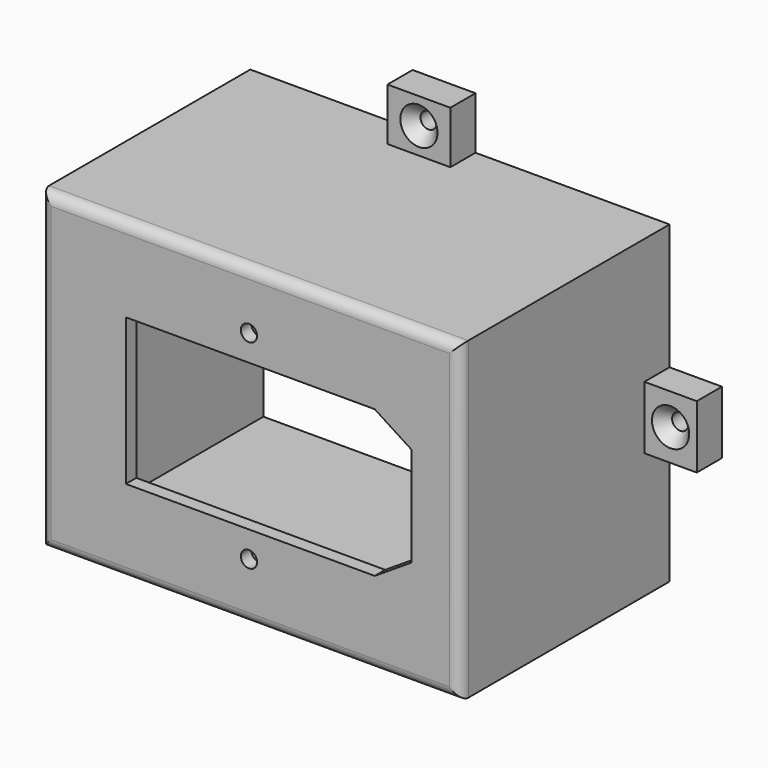
from build123d import *

# Parameters (mm, degrees)
F0_W            = 80
F0_H            = 60
F0_W_2          = 75
F0_H_2          = 55
F1_DEPTH        = 50
F0_R            = 1.55
F2_DEPTH        = 2.5
F3_W            = 10
F3_H            = 12
F3_R            = 1.55
F3_W_2          = 12
F3_H_2          = 10
F4_DEPTH        = 6
F5_R            = 2
F10_D           = 3.1
F10_CSINK_D     = 7.1
F10_CSINK_ANGLE = 82


with BuildPart() as f1:
    # F0 (on Front) → F1 (new body)
    with BuildSketch(Plane.XZ):
        Rectangle(F0_W, F0_H)
        Rectangle(F0_W_2, F0_H_2, mode=Mode.SUBTRACT)
    extrude(amount=-F1_DEPTH)

    # F0 (on Front) → F2 (join)
    with BuildSketch(Plane.XZ):
        Rectangle(F0_W_2, F0_H_2)
        with Locations((-0.25, -19)):
            Circle(F0_R, mode=Mode.SUBTRACT)
        with Locations((-0.25, 19)):
            Circle(F0_R, mode=Mode.SUBTRACT)
        Polygon((30.75, -9.5), (23.75, -14), (-23.75, -14), (-23.75, 14), (23.75, 14), (30.75, 9.5), align=None, mode=Mode.SUBTRACT)
    extrude(amount=-F2_DEPTH)

    # F3 (on face) → F4 (join)
    with BuildSketch(Plane(origin=(0, 50, 0), x_dir=(-1, 0, 0), z_dir=(0, 1, 0))):
        with Locations((45, 0)):
            Rectangle(F3_W, F3_H)
        with Locations((45, 0)):
            Circle(F3_R, mode=Mode.SUBTRACT)
        with Locations((3.022505, -35)):
            Rectangle(F3_W_2, F3_H_2)
        with Locations((3.022505, -35)):
            Circle(F3_R, mode=Mode.SUBTRACT)
        with Locations((-45, 0)):
            Rectangle(F3_W, F3_H)
        with Locations((-45, 0)):
            Circle(F3_R, mode=Mode.SUBTRACT)
        with Locations((3.022505, 35)):
            Rectangle(F3_W_2, F3_H_2)
        with Locations((3.022505, 35)):
            Circle(F3_R, mode=Mode.SUBTRACT)
    extrude(amount=-F4_DEPTH)

    # F5
    f5_edges = [f1.edges().sort_by_distance(p)[0] for p in [
        (40, 0, 0),
        (-40, 0, 0),
        (0, 0, 30),
        (0, 0, -30),
    ]]
    fillet(f5_edges, radius=F5_R)

    # F10 (through all)
    with Locations(Plane.XZ.offset(-44)):
        with Locations((-3.022505, -35), (-3.022505, 35), (-45, 0), (45, 0)):
            CounterSinkHole(F10_D / 2, F10_CSINK_D / 2, counter_sink_angle=F10_CSINK_ANGLE)


solid = f1.part
